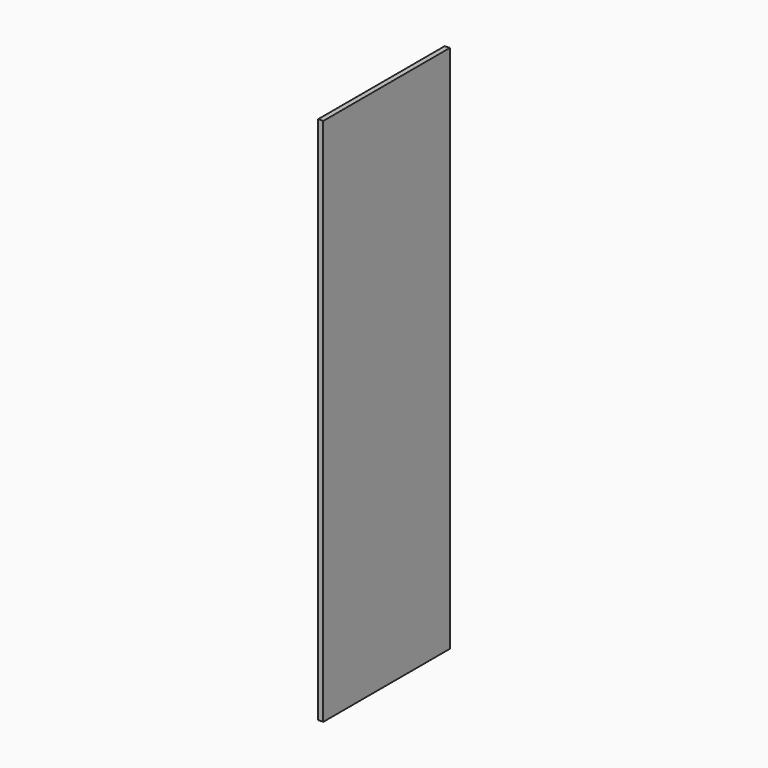
from build123d import *

# Parameters (mm, degrees)
SKETCH002_W  = 600
SKETCH002_H  = 2007
PAD002_DEPTH = 19


with BuildPart() as part:
    # Sketch002 → Pad002 (new body)
    with BuildSketch(Plane.YZ):
        Rectangle(SKETCH002_W, SKETCH002_H)
    extrude(amount=PAD002_DEPTH)


solid = part.part
